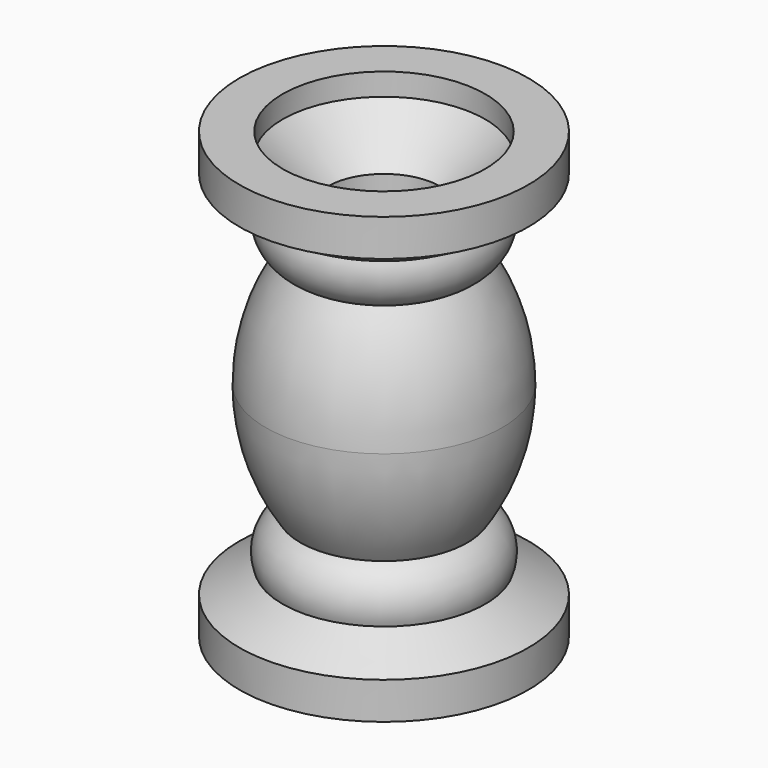
from build123d import *


with BuildPart() as f1:
    # F0 (on Front) → F1 (revolve)
    with BuildSketch(Plane.XZ):
        with BuildLine():
            Line((-17.3736, 0), (-24.765, 0))
            Line((-24.765, 0), (-24.765, -6.35))
            Line((-24.765, -6.35), (-17.3736, -10.541))
            ThreePointArc((-17.3736, -10.541), (-17.392995, -15.249321), (-14.3256, -18.8214))
            ThreePointArc((-14.3256, -18.8214), (-18.753643, -28.012176), (-20.274745, -38.1))
            Line((-20.274745, -38.1), (-9.652, -38.1))
            Line((-9.652, -38.1), (-9.652, -11.43))
            Line((-9.652, -11.43), (-17.3736, -3.81))
            Line((-17.3736, -3.81), (-17.3736, 0))
        make_face()
        with BuildLine():
            Line((-9.652, -38.1), (-20.274745, -38.1))
            ThreePointArc((-20.274745, -38.1), (-18.753643, -48.187824), (-14.3256, -57.3786))
            ThreePointArc((-14.3256, -57.3786), (-17.392995, -60.950679), (-17.3736, -65.659))
            Line((-17.3736, -65.659), (-24.765, -69.85))
            Line((-24.765, -69.85), (-24.765, -76.2))
            Line((-24.765, -76.2), (-17.3736, -76.2))
            Line((-17.3736, -76.2), (-17.3736, -72.39))
            Line((-17.3736, -72.39), (-9.652, -64.77))
            Line((-9.652, -64.77), (-9.652, -38.1))
        make_face()
    revolve(axis=Axis((0, 0, 0), (0, 0, -1)))


solid = f1.part
